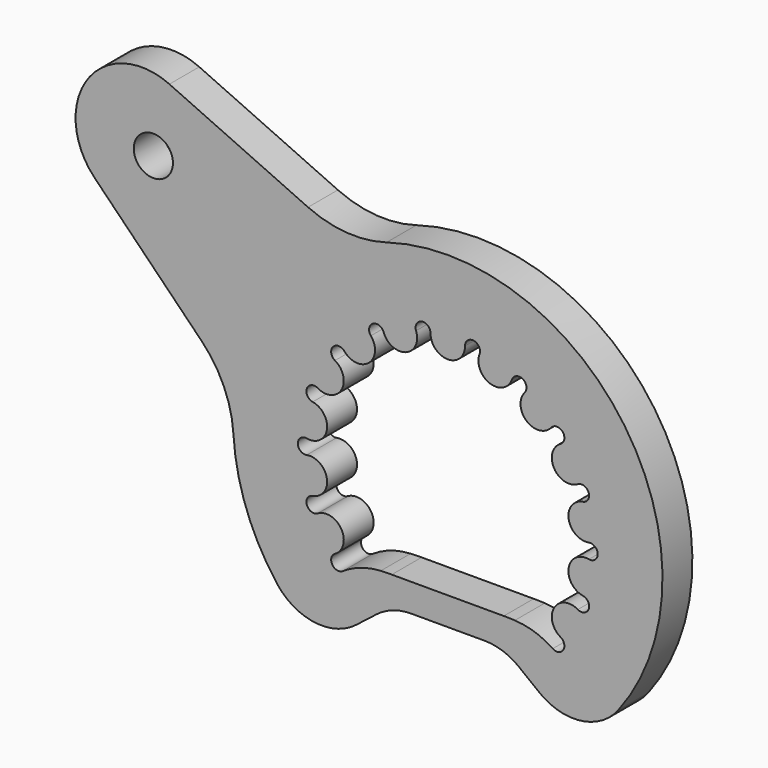
from build123d import *

# Parameters (mm, degrees)
F0_R     = 2.1
F1_DEPTH = 4


with BuildPart() as f1:
    # F0 (on Front) → F1 (new body)
    with BuildSketch(Plane.XZ):
        with BuildLine():
            ThreePointArc((-26.381971, 6.326054), (-23.972685, 2.787165), (-22.959026, -1.372268))
            ThreePointArc((-22.959026, -1.372268), (-21.551931, -8.032077), (-18.25719, -13.988388))
            ThreePointArc((-18.25719, -13.988388), (-14.253779, -16.291001), (-9.800476, -15.067308))
            Line((-9.800476, -15.067308), (-7.628003, -13.369986))
            ThreePointArc((-7.628003, -13.369986), (-5.887443, -12.424939), (-3.934034, -12.098051))
            Line((-3.934034, -12.098051), (3.934034, -12.098051))
            ThreePointArc((3.934034, -12.098051), (5.887443, -12.424939), (7.628003, -13.369986))
            Line((7.628003, -13.369986), (9.800476, -15.067308))
            ThreePointArc((9.800476, -15.067308), (14.253779, -16.291001), (18.25719, -13.988388))
            ThreePointArc((18.25719, -13.988388), (18.941172, 13.047299), (-6.562939, 22.043771))
            ThreePointArc((-6.562939, 22.043771), (-10.818219, 21.573689), (-14.967711, 22.627305))
            Line((-14.967711, 22.627305), (-29.819204, 29.402617))
            ThreePointArc((-29.819204, 29.402617), (-38.582061, 27.01545), (-37.828191, 17.964599))
            Line((-37.828191, 17.964599), (-26.381971, 6.326054))
        make_face()
        with BuildLine():
            ThreePointArc((11.244166, -10.473286), (9.304982, -9.523645), (7.182465, -9.127198))
            ThreePointArc((7.182465, -9.127198), (6.591412, -9.105339), (6, -9.098051))
            Line((6, -9.098051), (-6, -9.098051))
            ThreePointArc((-6, -9.098051), (-6.591412, -9.105339), (-7.182465, -9.127198))
            ThreePointArc((-7.182465, -9.127198), (-9.304982, -9.523645), (-11.244166, -10.473286))
            ThreePointArc((-11.244166, -10.473286), (-12.370984, -10.228297), (-12.082394, -9.11185))
            ThreePointArc((-12.082394, -9.11185), (-11.388234, -6.575), (-13.932291, -5.907735))
            ThreePointArc((-13.932291, -5.907735), (-15.091357, -5.492805), (-14.470173, -4.429916))
            ThreePointArc((-14.470173, -4.429916), (-12.950222, -2.283474), (-15.112635, -0.786331))
            ThreePointArc((-15.112635, -0.786331), (-16.059887, 0), (-15.112635, 0.786331))
            ThreePointArc((-15.112635, 0.786331), (-12.950222, 2.283474), (-14.470173, 4.429916))
            ThreePointArc((-14.470173, 4.429916), (-15.091357, 5.492805), (-13.932291, 5.907735))
            ThreePointArc((-13.932291, 5.907735), (-11.388234, 6.575), (-12.082394, 9.11185))
            ThreePointArc((-12.082394, 9.11185), (-12.302587, 10.323096), (-11.071506, 10.316579))
            ThreePointArc((-11.071506, 10.316579), (-8.452657, 10.073484), (-8.237301, 12.69476))
            ThreePointArc((-8.237301, 12.69476), (-8.029943, 13.90827), (-6.875335, 13.481092))
            ThreePointArc((-6.875335, 13.481092), (-4.497565, 12.356958), (-3.398667, 14.746495))
            ThreePointArc((-3.398667, 14.746495), (-2.78877, 15.815901), (-1.849896, 15.019585))
            ThreePointArc((-1.849896, 15.019585), (0, 13.15), (1.849896, 15.019585))
            ThreePointArc((1.849896, 15.019585), (2.78877, 15.815901), (3.398667, 14.746495))
            ThreePointArc((3.398667, 14.746495), (4.497565, 12.356958), (6.875335, 13.481092))
            ThreePointArc((6.875335, 13.481092), (8.029943, 13.90827), (8.237301, 12.69476))
            ThreePointArc((8.237301, 12.69476), (8.452657, 10.073484), (11.071506, 10.316579))
            ThreePointArc((11.071506, 10.316579), (12.302587, 10.323096), (12.082394, 9.11185))
            ThreePointArc((12.082394, 9.11185), (11.388234, 6.575), (13.932291, 5.907735))
            ThreePointArc((13.932291, 5.907735), (15.091357, 5.492805), (14.470173, 4.429916))
            ThreePointArc((14.470173, 4.429916), (12.950222, 2.283474), (15.112635, 0.786331))
            ThreePointArc((15.112635, 0.786331), (16.059887, 0), (15.112635, -0.786331))
            ThreePointArc((15.112635, -0.786331), (12.950222, -2.283474), (14.470173, -4.429916))
            ThreePointArc((14.470173, -4.429916), (15.091357, -5.492805), (13.932291, -5.907735))
            ThreePointArc((13.932291, -5.907735), (11.388234, -6.575), (12.082394, -9.11185))
            ThreePointArc((12.082394, -9.11185), (12.370984, -10.228297), (11.244166, -10.473286))
        make_face(mode=Mode.SUBTRACT)
        with Locations((-31.537354, 22.082693)):
            Circle(F0_R, mode=Mode.SUBTRACT)
    extrude(amount=F1_DEPTH)


solid = f1.part
